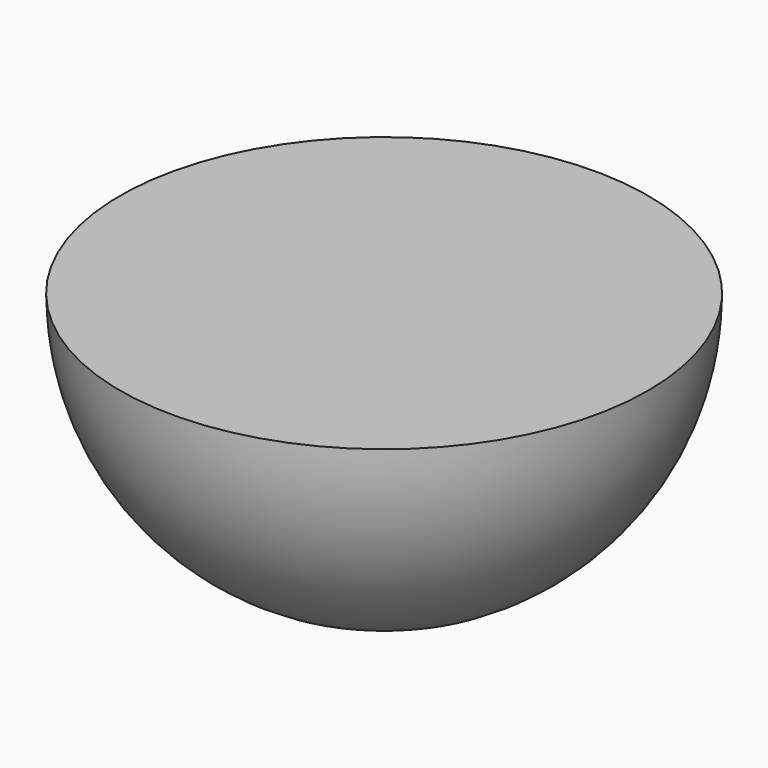
from build123d import *

# Parameters (mm, degrees)
F2_W     = 33.739738
F2_H     = 14.980557
F3_DEPTH = 12.7


with BuildPart() as f1:
    # F0 (on Front) → F1 (revolve)
    with BuildSketch(Plane.XZ):
        with BuildLine():
            Line((0, 10.16), (0, -10.16))
            ThreePointArc((0, -10.16), (10.16, 0), (0, 10.16))
        make_face()
    revolve(axis=Axis((0, 0, 0), (0, 0, 1)))

    # F2 (on Front) → F3 (cut, symmetric)
    with BuildSketch(Plane.XZ):
        with Locations((0.748722, 7.490278)):
            Rectangle(F2_W, F2_H)
    extrude(amount=F3_DEPTH, both=True, mode=Mode.SUBTRACT)


solid = f1.part
